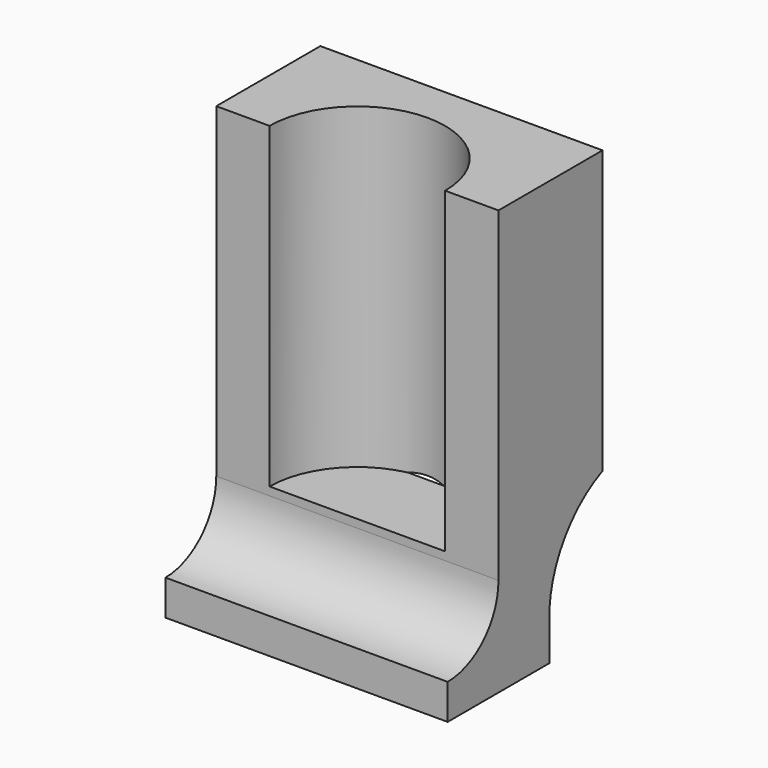
from build123d import *

# Parameters (mm, degrees)
F1_DEPTH = 20
F3_DEPTH = 45


with BuildPart() as f1:
    # F0 (on Right) → F1 (new body, symmetric)
    with BuildSketch(Plane.YZ):
        with BuildLine():
            Line((-9, -11.5479181204), (-9, -16.5479181204))
            Line((-9, -16.5479181204), (9, -16.5479181204))
            Line((9, -16.5479181204), (9, -11.5479181204))
            ThreePointArc((9, -11.5479181204), (11.3954428877, -2.5174159417), (18.44, 3.619548399))
            Line((18.44, 3.619548399), (18.44, 43.619548399))
            Line((18.44, 43.619548399), (0, 43.619548399))
            Line((0, 43.619548399), (0, -2.5479181204))
            ThreePointArc((0, -2.5479181204), (-2.6360389693, -8.9118791511), (-9, -11.5479181204))
        make_face()
    extrude(amount=F1_DEPTH, both=True)

    # F2 (on face) → F3 (cut)
    with BuildSketch(Plane.XY.offset(43.619548399)):
        with BuildLine():
            Line((-12.44, 0), (12.44, 0))
            ThreePointArc((12.44, 0), (0, 12.44), (-12.44, 0))
        make_face()
    extrude(amount=-F3_DEPTH, mode=Mode.SUBTRACT)


solid = f1.part
